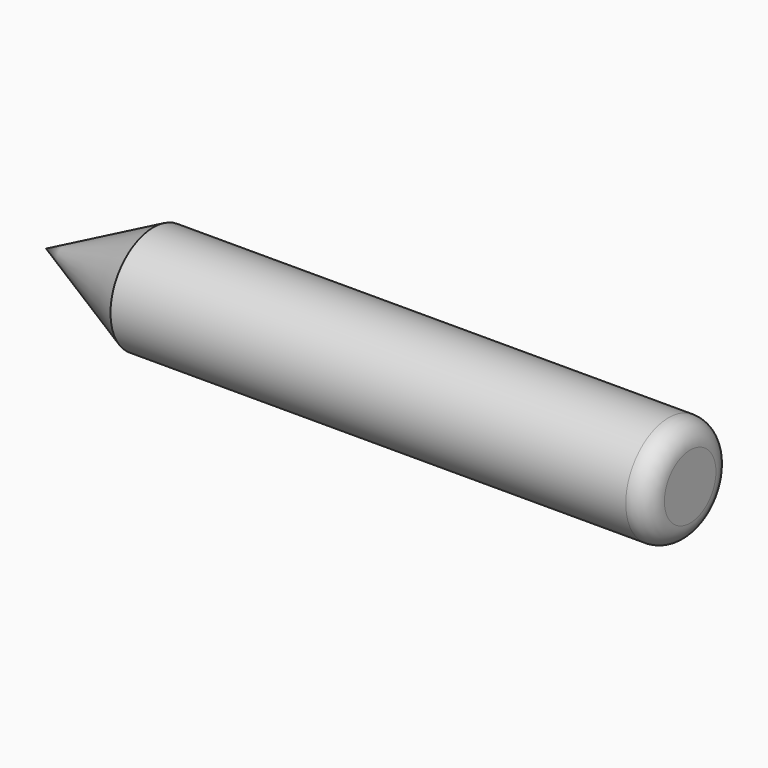
from build123d import *

# Parameters (mm, degrees)
F0_R     = 1270
F1_DEPTH = 6350
F2_R     = 508


with BuildPart() as f1:
    # F0 (on Right) → F1 (new body, symmetric)
    with BuildSketch(Plane.YZ):
        Circle(F0_R)
    extrude(amount=F1_DEPTH, both=True)

    # F2
    f2_edges = [f1.edges().sort_by_distance(p)[0] for p in [
        (6350, -1270, 0),
    ]]
    fillet(f2_edges, radius=F2_R)

    # F3 (on Front) → F4 (revolve)
    with BuildSketch(Plane.XZ):
        Polygon((-6350, 0), (-6350, 1270), (-8890, 0), align=None)
    revolve(axis=Axis((-7620, 0, 0), (1, 0, 0)))


solid = f1.part
